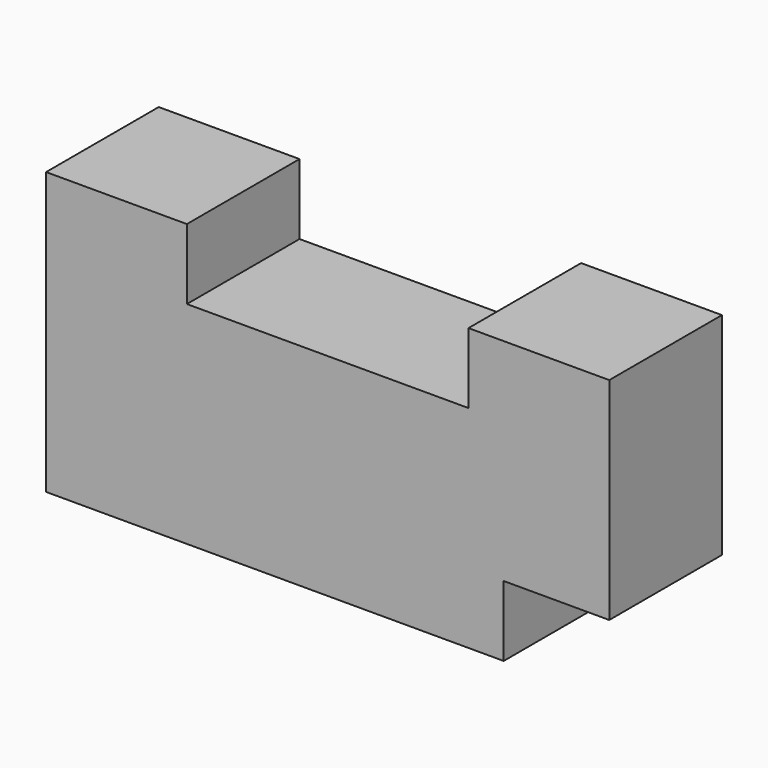
from build123d import *

# Parameters (mm, degrees)
F0_W     = 101.6
F0_H     = 50.8
F1_DEPTH = 12.7
F2_W     = 19.05
F2_H     = 12.7
F3_DEPTH = 25.401
F4_W     = 50.8
F4_H     = 12.7
F5_DEPTH = 25.401


with BuildPart() as f1:
    # F0 (on Front) → F1 (new body, symmetric)
    with BuildSketch(Plane.XZ):
        Rectangle(F0_W, F0_H)
    extrude(amount=F1_DEPTH, both=True)

    # F2 (on face) → F3 (cut, through all)
    with BuildSketch(Plane.XZ.offset(12.7)):
        with Locations((41.275, -19.05)):
            Rectangle(F2_W, F2_H)
    extrude(amount=-F3_DEPTH, mode=Mode.SUBTRACT)

    # F4 (on face) → F5 (cut, through all)
    with BuildSketch(Plane.XZ.offset(12.7)):
        with Locations((0, 19.05)):
            Rectangle(F4_W, F4_H)
    extrude(amount=-F5_DEPTH, mode=Mode.SUBTRACT)


solid = f1.part
